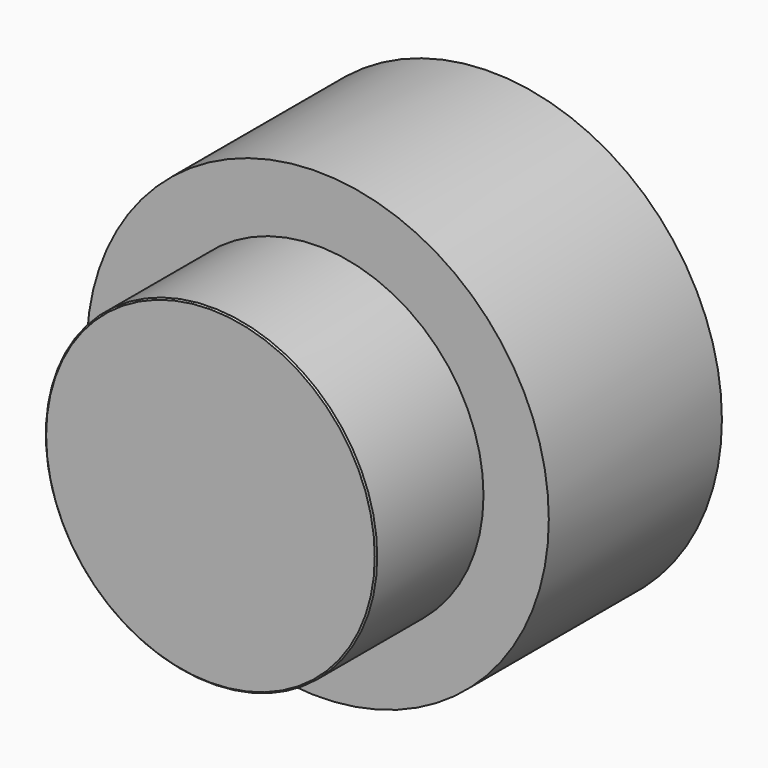
from build123d import *

# Parameters (mm, degrees)
F0_R     = 21.4249
F0_R_2   = 15.367
F1_DEPTH = 20.066
F2_R     = 15.367
F3_DEPTH = 32.512
F4_SIZE2 = 0.127
F4_SIZE  = 0.127


with BuildPart() as f1:
    # F0 (on Front) → F1 (new body)
    with BuildSketch(Plane.XZ):
        Circle(F0_R)
        Circle(F0_R_2, mode=Mode.SUBTRACT)
        Circle(F0_R_2)
    extrude(amount=F1_DEPTH)

    # F2 (on Front) → F3 (join)
    with BuildSketch(Plane.XZ):
        Circle(F2_R)
    extrude(amount=F3_DEPTH)

    # F4
    f4_edges = [f1.edges().sort_by_distance(p)[0] for p in [
        (-15.367, -32.512, 0),
    ]]
    chamfer(f4_edges, length=F4_SIZE, length2=F4_SIZE2)


solid = f1.part
